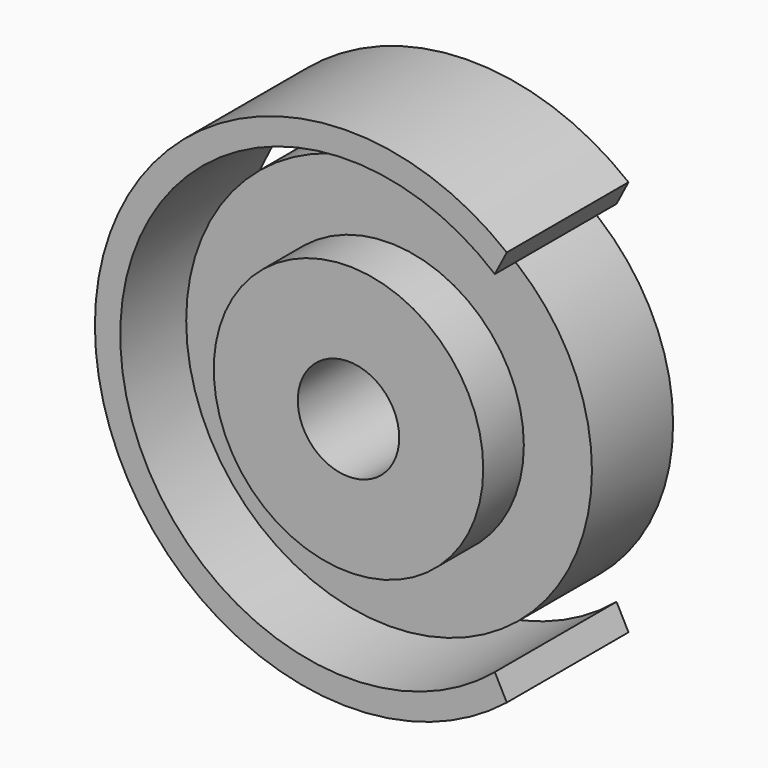
from build123d import *

# Parameters (mm, degrees)
F0_R     = 25.4
F0_R_2   = 16.872111
F1_DEPTH = 12.7
F0_R_3   = 6.35
F2_DEPTH = 19.05
F4_DEPTH = 19.05


with BuildPart() as f1:
    # F0 (on Front) → F1 (new body)
    with BuildSketch(Plane.XZ):
        Circle(F0_R)
        Circle(F0_R_2, mode=Mode.SUBTRACT)
    extrude(amount=F1_DEPTH)

    # F0 (on Front) → F2 (join)
    with BuildSketch(Plane.XZ):
        Circle(F0_R_2)
        Circle(F0_R_3, mode=Mode.SUBTRACT)
    extrude(amount=F2_DEPTH)


with BuildPart() as f4:
    # F3 (on Front) → F4 (new body)
    with BuildSketch(Plane.XZ):
        with BuildLine():
            ThreePointArc((18.320052, -21.929576), (-28.575, 0), (18.320052, 21.929576))
            Line((18.320052, 21.929576), (19.817383, 24.805923))
            ThreePointArc((19.817383, 24.805923), (-31.75, 0), (19.817383, -24.805923))
            Line((19.817383, -24.805923), (18.320052, -21.929576))
        make_face()
    extrude(amount=F4_DEPTH)


solid = Compound([f1.part, f4.part])
